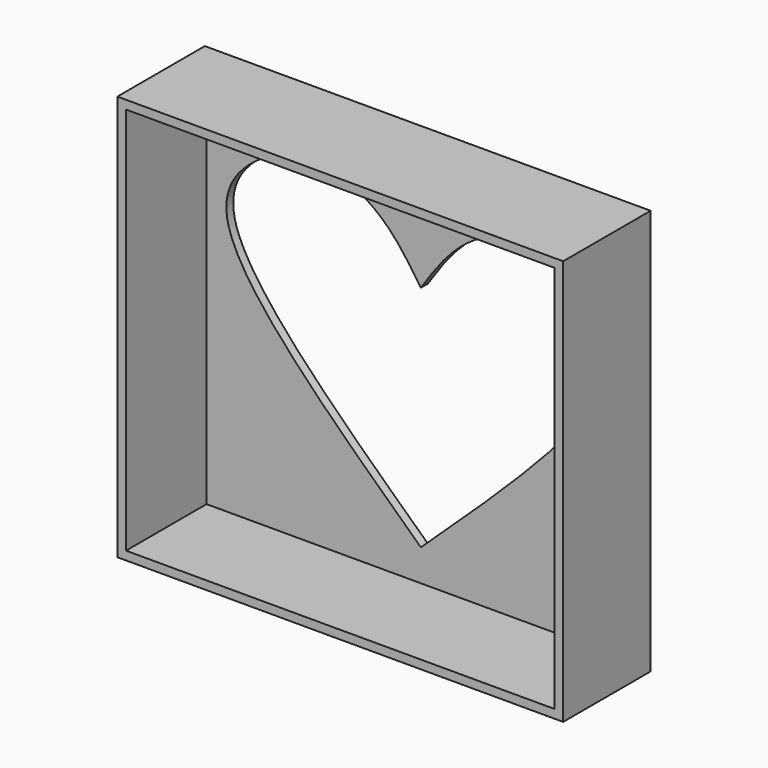
from build123d import *

# Parameters (mm, degrees)
F0_W     = 103.5625115037
F0_H     = 94.215720892
F1_DEPTH = 25.4
F2_T     = -2
F4_DEPTH = 25.4


with BuildPart() as f1:
    # F0 (on Front) → F1 (new body)
    with BuildSketch(Plane.XZ):
        Rectangle(F0_W, F0_H)
    extrude(amount=F1_DEPTH)

    # F2
    f2_openings = [f1.faces().sort_by_distance(p)[0] for p in [
        (0, -25.4, 0),
    ]]
    offset(amount=F2_T, openings=f2_openings)

    # F3 (on face) → F4 (cut)
    with BuildSketch(Plane(origin=(0, 0, 0), x_dir=(-1, 0, 0), z_dir=(0, 1, 0))):
        with BuildLine():
            add(Edge.make_bspline(
                [(0, 15.3287509456), (2.8759838488, 19.61843277), (8.7431875053, 28.3696769384), (25.5477306115, 35.8525990524), (41.9020528727, 28.1543589695), (50.7457146307, 9.6766957358), (20.6699938695, -18.438481617), (0, -37.7610623837)],
                knots=[0, 0, 0, 0, 0.1637608356, 0.3340832995, 0.5015745629, 0.6574495816, 1, 1, 1, 1], degree=3))
            add(Edge.make_bspline(
                [(0, 15.3287509456), (-2.8759838488, 19.61843277), (-8.7431875053, 28.3696769384), (-25.5477306115, 35.8525990524), (-41.9020528727, 28.1543589695), (-50.7457146307, 9.6766957358), (-20.6699938695, -18.438481617), (0, -37.7610623837)],
                knots=[0, 0, 0, 0, 0.1637608356, 0.3340832995, 0.5015745629, 0.6574495816, 1, 1, 1, 1], degree=3))
        make_face()
    extrude(amount=-F4_DEPTH, mode=Mode.SUBTRACT)


solid = f1.part
